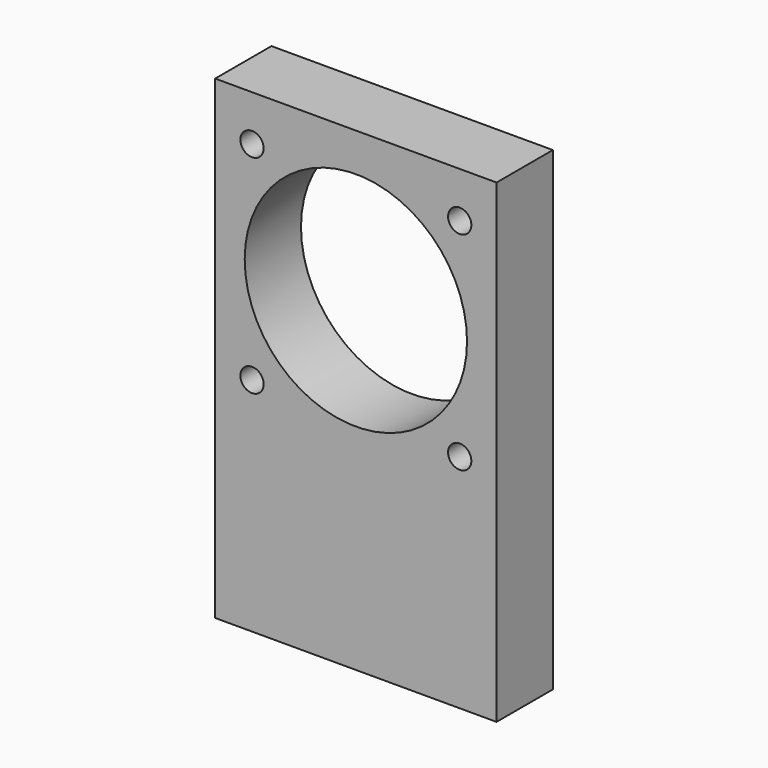
from build123d import *

# Parameters (mm, degrees)
F0_W     = 101.6
F0_H     = 171.45
F1_DEPTH = 25.4
F3_D     = 8.4328
F3_DEPTH = 25.4
F3_TIP   = 2.5334687141
F4_R     = 40.132
F5_DEPTH = 25.401
F7_D     = 8.4


with BuildPart() as f1:
    # F0 (on Front) → F1 (new body)
    with BuildSketch(Plane.XZ):
        Rectangle(F0_W, F0_H)
    extrude(amount=F1_DEPTH)

    # F3
    with Locations(Plane(origin=(0, 0, -85.725), x_dir=(1, 0, 0), z_dir=(0, 0, -1))):
        with Locations((-25.4, 12.7), (25.4, 12.7), (0, 12.7)):
            Hole(F3_D / 2, depth=F3_DEPTH)
            with Locations((0, 0, -(F3_DEPTH + F3_TIP / 2))):  # 118° drill point
                Cone(0, F3_D / 2, F3_TIP, mode=Mode.SUBTRACT)

    # F4 (on face) → F5 (cut, through all)
    with BuildSketch(Plane.XZ.offset(25.4)):
        with Locations((0, 31.75)):
            Circle(F4_R)
    extrude(amount=-F5_DEPTH, mode=Mode.SUBTRACT)

    # F7 (through all)
    with Locations(Plane.XZ.offset(25.4)):
        with Locations((-37.4904, 69.2404), (37.4904, 69.2404), (37.4904, -5.7404), (-37.4904, -5.7404)):
            Hole(F7_D / 2)


solid = f1.part
